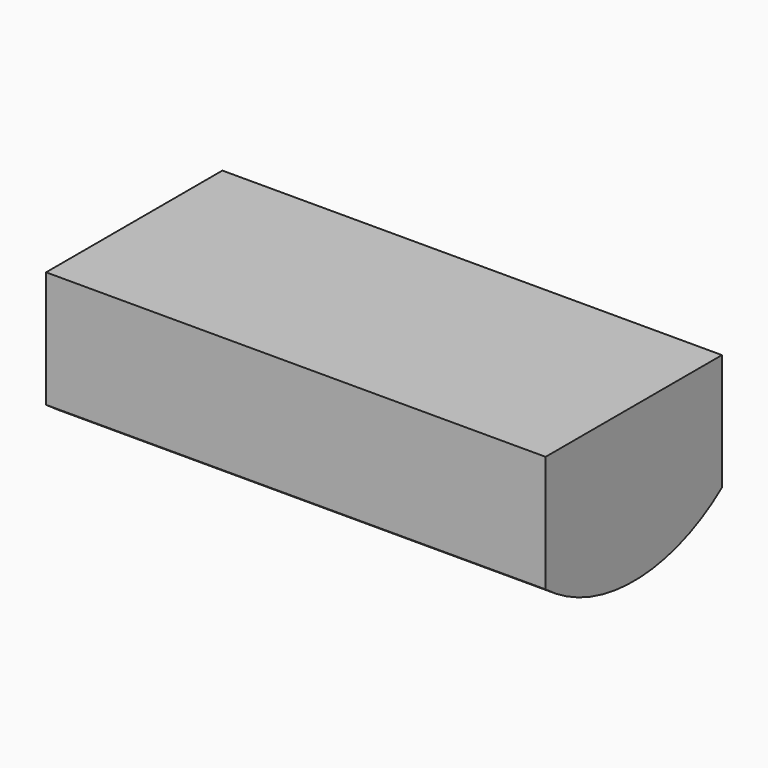
from build123d import *

# Parameters (mm, degrees)
F1_DEPTH = 1700


with BuildPart() as f1:
    # F0 (on Right) → F1 (new body, symmetric)
    with BuildSketch(Plane.YZ):
        with BuildLine():
            Line((902.375636, 429.183081), (-597.624364, 429.183081))
            Line((-597.624364, 429.183081), (-597.624364, -364.904687))
            ThreePointArc((-597.624364, -364.904687), (152.375636, -620.816919), (902.375636, -364.904687))
            Line((902.375636, -364.904687), (902.375636, 429.183081))
        make_face()
    extrude(amount=F1_DEPTH, both=True)


solid = f1.part
